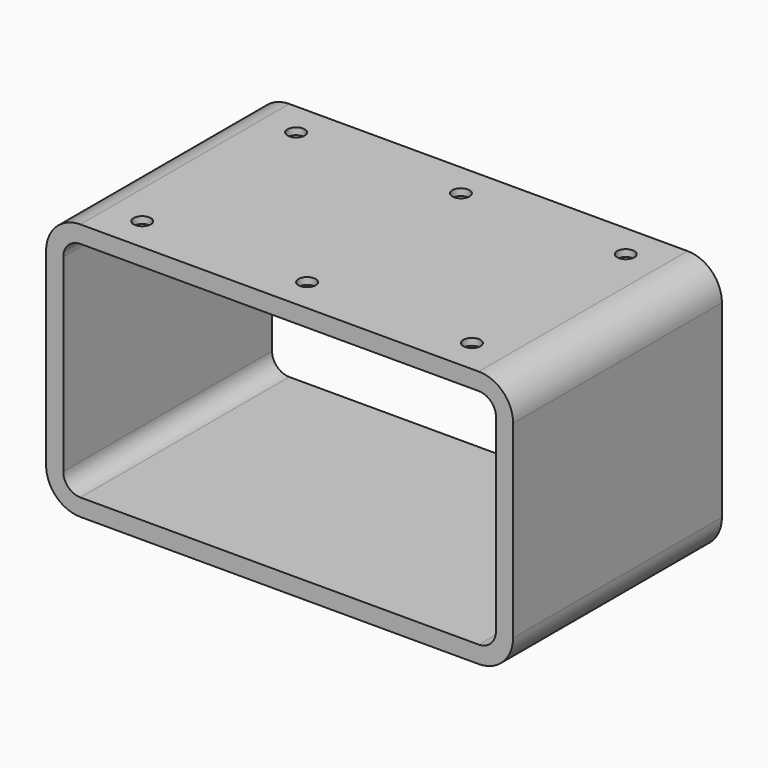
from build123d import *

# Parameters (mm, degrees)
F1_DEPTH = 380
F2_R     = 25
F3_DEPTH = 10
F4_R     = 12.5
F5_DEPTH = 10


with BuildPart() as f1:
    # F0 (on Front) → F1 (new body)
    with BuildSketch(Plane.XZ):
        with BuildLine():
            Line((-290, -187.5), (290, -187.5))
            ThreePointArc((290, -187.5), (325.355339, -172.855339), (340, -137.5))
            Line((340, -137.5), (340, 137.5))
            ThreePointArc((340, 137.5), (325.355339, 172.855339), (290, 187.5))
            Line((290, 187.5), (-290, 187.5))
            ThreePointArc((-290, 187.5), (-325.355339, 172.855339), (-340, 137.5))
            Line((-340, 137.5), (-340, -137.5))
            ThreePointArc((-340, -137.5), (-325.355339, -172.855339), (-290, -187.5))
        make_face()
        with BuildLine():
            ThreePointArc((315, -137.5), (307.67767, -155.17767), (290, -162.5))
            Line((290, -162.5), (-290, -162.5))
            ThreePointArc((-290, -162.5), (-307.67767, -155.17767), (-315, -137.5))
            Line((-315, -137.5), (-315, 137.5))
            ThreePointArc((-315, 137.5), (-307.67767, 155.17767), (-290, 162.5))
            Line((-290, 162.5), (290, 162.5))
            ThreePointArc((290, 162.5), (307.67767, 155.17767), (315, 137.5))
            Line((315, 137.5), (315, -137.5))
        make_face(mode=Mode.SUBTRACT)
    extrude(amount=F1_DEPTH)

    # F2 (on face) → F3 (cut)
    with BuildSketch(Plane(origin=(0, 0, -187.5), x_dir=(1, 0, 0), z_dir=(0, 0, -1))):
        with Locations((-240, 330)):
            Circle(F2_R)
        with Locations((-240, 50)):
            Circle(F2_R)
        with Locations((240, 50)):
            Circle(F2_R)
        with Locations((240, 330)):
            Circle(F2_R)
    extrude(amount=-F3_DEPTH, mode=Mode.SUBTRACT)

    # F4 (on face) → F5 (cut)
    with BuildSketch(Plane.XY.offset(187.5)):
        with Locations((-240, -330)):
            Circle(F4_R)
        with Locations((-240, -50)):
            Circle(F4_R)
        with Locations((0, -330)):
            Circle(F4_R)
        with Locations((0, -50)):
            Circle(F4_R)
        with Locations((240, -330)):
            Circle(F4_R)
        with Locations((240, -50)):
            Circle(F4_R)
    extrude(amount=-F5_DEPTH, mode=Mode.SUBTRACT)


solid = f1.part
